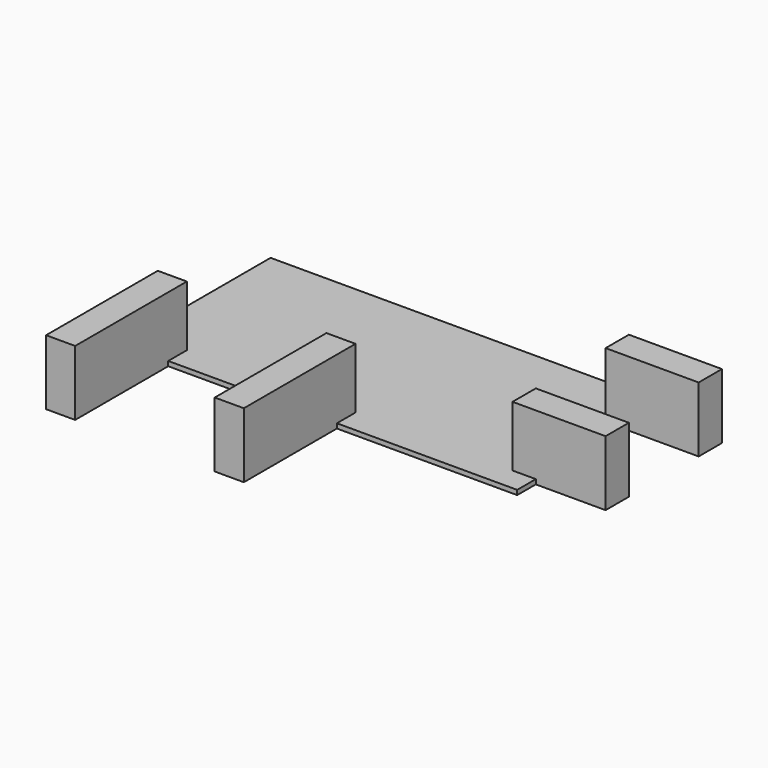
from build123d import *

# Parameters (mm, degrees)
BOX012_W     = 4
BOX012_H     = 1.25
BOX012_DEPTH = 2.8
BOX009_W     = 1.25
BOX009_H     = 6
BOX009_DEPTH = 2.8
BOX011_W     = 4
BOX011_H     = 1.25
BOX011_DEPTH = 2.8
BOX010_W     = 1.25
BOX010_H     = 6
BOX010_DEPTH = 2.8
BOX013_W     = 17
BOX013_H     = 8
BOX013_DEPTH = 0.2


with BuildPart() as cube012:
    # Box012 → Box012 (new body)
    with BuildSketch(Plane(origin=(11, 8, 0), x_dir=(1, 0, 0), z_dir=(0, 0, 1))):
        with Locations((2, 0.625)):
            Rectangle(BOX012_W, BOX012_H)
    extrude(amount=BOX012_DEPTH)


with BuildPart() as cube009:
    # Box009 → Box009 (new body)
    with BuildSketch(Plane(origin=(3, -3, 0), x_dir=(1, 0, 0), z_dir=(0, 0, 1))):
        with Locations((0.625, 3)):
            Rectangle(BOX009_W, BOX009_H)
    extrude(amount=BOX009_DEPTH)


with BuildPart() as cube011:
    # Box011 → Box011 (new body)
    with BuildSketch(Plane(origin=(11, 3, 0), x_dir=(1, 0, 0), z_dir=(0, 0, 1))):
        with Locations((2, 0.625)):
            Rectangle(BOX011_W, BOX011_H)
    extrude(amount=BOX011_DEPTH)


with BuildPart() as cube010:
    # Box010 → Box010 (new body)
    with BuildSketch(Plane(origin=(-4.25, -3, 0), x_dir=(1, 0, 0), z_dir=(0, 0, 1))):
        with Locations((0.625, 3)):
            Rectangle(BOX010_W, BOX010_H)
    extrude(amount=BOX010_DEPTH)


with BuildPart() as custom_support:
    # Box013 → Box013 (new body)
    with BuildSketch(Plane(origin=(-5, 2, 0), x_dir=(1, 0, 0), z_dir=(0, 0, 1))):
        with Locations((8.5, 4)):
            Rectangle(BOX013_W, BOX013_H)
    extrude(amount=BOX013_DEPTH)

    # Fusion003002: union Cube012, Cube009, Cube011, Cube010
    add(cube012.part)
    add(cube009.part)
    add(cube011.part)
    add(cube010.part)


solid = custom_support.part
